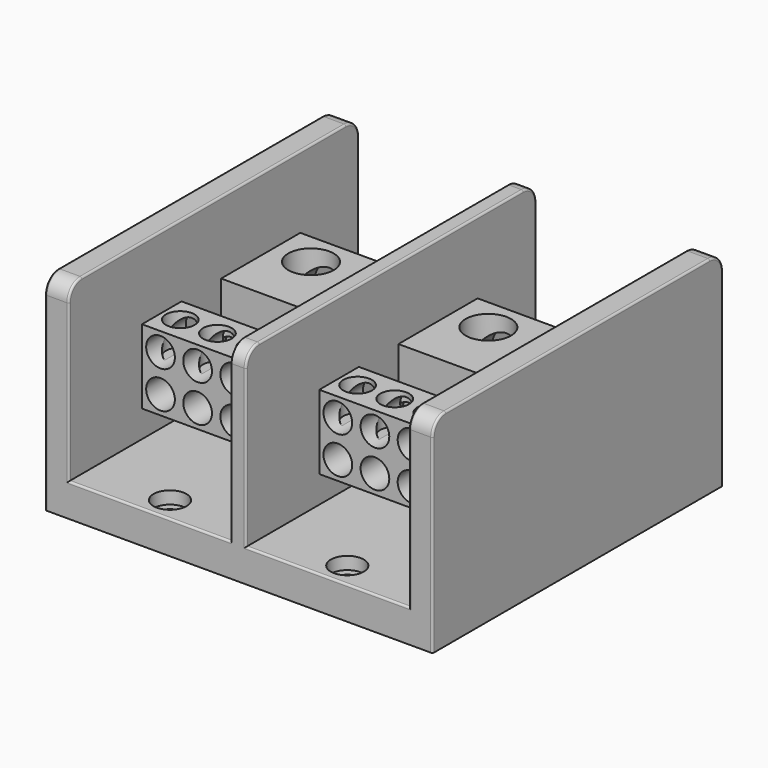
from build123d import *

# Parameters (mm, degrees)
F0_W      = 149.225
F0_H      = 139.7
F1_DEPTH  = 12.7
F2_R      = 3.429
F3_DEPTH  = 12.7
F4_R      = 6.35
F5_DEPTH  = 4.826
F6_W      = 62.70625
F6_H      = 38.1
F7_DEPTH  = 12.7
F8_W      = 9.128125
F8_H      = 139.7
F8_W_2    = 5.55625
F9_DEPTH  = 66.675
F10_W     = 57.15
F10_H     = 76.2
F11_DEPTH = 28.575
F13_W     = 57.15
F13_H     = 19.05
F14_DEPTH = 14.2875
F12_R     = 5.5245
F15_DEPTH = 19.05
F16_DEPTH = 19.05
F17_R     = 5.5245
F18_DEPTH = 12.319
F19_R     = 5.5245
F20_DEPTH = 12.319
F22_R     = 8.73125
F23_DEPTH = 25.4
F21_R     = 8.73125
F24_DEPTH = 22.225
F26_R     = 6.35
F27_R     = 0.762


with BuildPart() as f1:
    # F0 (on Top) → F1 (new body)
    with BuildSketch(Plane.XY):
        Rectangle(F0_W, F0_H)
    extrude(amount=F1_DEPTH)

    # F2 (on face) → F3 (cut)
    with BuildSketch(Plane.XY.offset(12.7)):
        with Locations((-34.13125, 60.325)):
            Circle(F2_R)
        with Locations((34.13125, 60.325)):
            Circle(F2_R)
        with Locations((-34.13125, -60.325)):
            Circle(F2_R)
        with Locations((34.13125, -60.325)):
            Circle(F2_R)
    extrude(amount=-F3_DEPTH, mode=Mode.SUBTRACT)

    # F4 (on face) → F5 (cut)
    with BuildSketch(Plane.XY.offset(12.7)):
        with Locations((-34.13125, 60.325)):
            Circle(F4_R)
        with Locations((34.13125, 60.325)):
            Circle(F4_R)
        with Locations((-34.13125, -60.325)):
            Circle(F4_R)
        with Locations((34.13125, -60.325)):
            Circle(F4_R)
    extrude(amount=-F5_DEPTH, mode=Mode.SUBTRACT)

    # F6 (on face) → F7 (join)
    with BuildSketch(Plane.XY.offset(12.7)):
        with Locations((-34.13125, 0)):
            Rectangle(F6_W, F6_H)
        with Locations((34.13125, 0)):
            Rectangle(F6_W, F6_H)
    extrude(amount=F7_DEPTH)

    # F8 (on face) → F9 (join)
    with BuildSketch(Plane.XY.offset(12.7)):
        with Locations((-70.0484375, 0)):
            Rectangle(F8_W, F8_H)
        Rectangle(F8_W_2, F8_H)
        with Locations((70.0484375, 0)):
            Rectangle(F8_W, F8_H)
    extrude(amount=F9_DEPTH)

    # F26
    f26_edges = [f1.edges().sort_by_distance(p)[0] for p in [
        (-70.048438, -69.85, 79.375),
        (0, -69.85, 79.375),
        (70.048438, -69.85, 79.375),
        (70.048438, 69.85, 79.375),
        (0, 69.85, 79.375),
        (-70.048438, 69.85, 79.375),
    ]]
    fillet(f26_edges, radius=F26_R)

    # F27
    f27_edges = [f1.edges().sort_by_distance(p)[0] for p in [
        (74.6125, -69.85, 36.5125),
        (34.13125, -69.85, 12.7),
        (65.484375, -69.85, 42.8625),
        (2.778125, -69.85, 42.8625),
        (-34.13125, -69.85, 12.7),
        (-65.484375, -69.85, 42.8625),
        (-74.6125, -69.85, 36.5125),
        (34.13125, 69.85, 12.7),
        (-34.13125, 69.85, 12.7),
    ]]
    fillet(f27_edges, radius=F27_R)


with BuildPart() as f11:
    # F10 (on face) → F11 (new body)
    with BuildSketch(Plane.XY.offset(25.4)):
        with Locations((-34.13125, 0)):
            Rectangle(F10_W, F10_H)
    extrude(amount=F11_DEPTH)

    # F13 (on face) → F14 (cut)
    with BuildSketch(Plane.XY.offset(53.975)):
        with Locations((-34.13125, -9.525)):
            Rectangle(F13_W, F13_H)
    extrude(amount=-F14_DEPTH, mode=Mode.SUBTRACT)

    # F12 (on face) → F15 (cut)
    with BuildSketch(Plane.XZ.offset(38.1)):
        with Locations((-55.5625, 46.83125)):
            Circle(F12_R)
        with Locations((-41.275, 46.83125)):
            Circle(F12_R)
        with Locations((-26.9875, 46.83125)):
            Circle(F12_R)
        with Locations((-12.7, 46.83125)):
            Circle(F12_R)
        with Locations((-55.5625, 32.54375)):
            Circle(F12_R)
        with Locations((-41.275, 32.54375)):
            Circle(F12_R)
        with Locations((-26.9875, 32.54375)):
            Circle(F12_R)
        with Locations((-12.7, 32.54375)):
            Circle(F12_R)
    extrude(amount=-F15_DEPTH, mode=Mode.SUBTRACT)

    # F16 (cut): faces of the model
    f16_faces = [f11.faces().sort_by_distance(p)[0] for p in [
        (-55.5625, -19.05, 32.54375),
        (-41.275, -19.05, 32.54375),
        (-26.9875, -19.05, 32.54375),
        (-12.7, -19.05, 32.54375),
    ]]
    extrude(f16_faces, amount=-F16_DEPTH, mode=Mode.SUBTRACT)

    # F17 (on face) → F18 (cut)
    with BuildSketch(Plane.XY.offset(53.975)):
        with Locations((-55.5625, -28.575)):
            Circle(F17_R)
        with Locations((-41.275, -28.575)):
            Circle(F17_R)
        with Locations((-26.9875, -28.575)):
            Circle(F17_R)
        with Locations((-12.7, -28.575)):
            Circle(F17_R)
    extrude(amount=-F18_DEPTH, mode=Mode.SUBTRACT)

    # F19 (on face) → F20 (cut)
    with BuildSketch(Plane.XY.offset(39.6875)):
        with Locations((-55.5625, -9.525)):
            Circle(F19_R)
        with Locations((-41.275, -9.525)):
            Circle(F19_R)
        with Locations((-26.9875, -9.525)):
            Circle(F19_R)
        with Locations((-12.7, -9.525)):
            Circle(F19_R)
    extrude(amount=-F20_DEPTH, mode=Mode.SUBTRACT)

    # F22 (on face) → F23 (cut)
    with BuildSketch(Plane(origin=(0, 38.1, 0), x_dir=(-1, 0, 0), z_dir=(0, 1, 0))):
        with Locations((19.84375, 39.6875)):
            Circle(F22_R)
        with Locations((48.41875, 39.6875)):
            Circle(F22_R)
    extrude(amount=-F23_DEPTH, mode=Mode.SUBTRACT)

    # F21 (on face) → F24 (cut)
    with BuildSketch(Plane.XY.offset(53.975)):
        with Locations((-19.84375, 25.4)):
            Circle(F21_R)
        with Locations((-48.41875, 25.4)):
            Circle(F21_R)
    extrude(amount=-F24_DEPTH, mode=Mode.SUBTRACT)


with BuildPart() as f25_1:
    # F25: copy of F11
    add(f11.part.moved(Location((68.2625, 0, 0))))


solid = Compound([f1.part, f11.part, f25_1.part])
